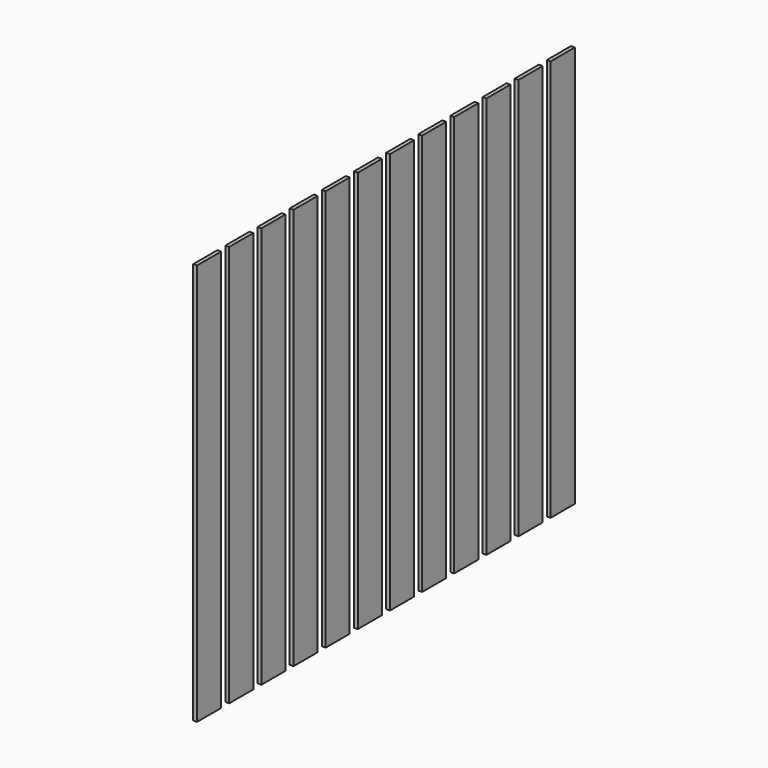
from build123d import *

# Parameters (mm, degrees)
F0_W     = 19
F0_H     = 150
F1_DEPTH = 2000


with BuildPart() as f1:
    # F0 (on Top) → F1 (new body)
    with BuildSketch(Plane.XY):
        with Locations((-88.387561, 75)):
            Rectangle(F0_W, F0_H)
    extrude(amount=F1_DEPTH)


with BuildPart() as f2_1:
    # F2: copy of F1
    add(f1.part.moved(Location((0, 200, 0))))


with BuildPart() as f3_1:
    # F3: copy of F2_1
    add(f2_1.part.moved(Location((0, 200, 0))))


with BuildPart() as f4_1:
    # F4: copy of F3_1
    add(f3_1.part.moved(Location((0, 200, 0))))


with BuildPart() as f5_1:
    # F5: copy of F4_1
    add(f4_1.part.moved(Location((0, 200, 0))))


with BuildPart() as f6_1:
    # F6: copy of F5_1
    add(f5_1.part.moved(Location((0, 200, 0))))


with BuildPart() as f7_1:
    # F7: copy of F6_1
    add(f6_1.part.moved(Location((0, 200, 0))))


with BuildPart() as f8_1:
    # F8: copy of F7_1
    add(f7_1.part.moved(Location((0, 200, 0))))


with BuildPart() as f9_1:
    # F9: copy of F8_1
    add(f8_1.part.moved(Location((0, 200, 0))))


with BuildPart() as f10_1:
    # F10: copy of F9_1
    add(f9_1.part.moved(Location((0, 200, 0))))


with BuildPart() as f11_1:
    # F11: copy of F10_1
    add(f10_1.part.moved(Location((0, 200, 0))))


with BuildPart() as f12_1:
    # F12: copy of F11_1
    add(f11_1.part.moved(Location((0, 200, 0))))


solid = Compound([f1.part, f2_1.part, f3_1.part, f4_1.part, f5_1.part, f6_1.part, f7_1.part, f8_1.part, f9_1.part, f10_1.part, f11_1.part, f12_1.part])
